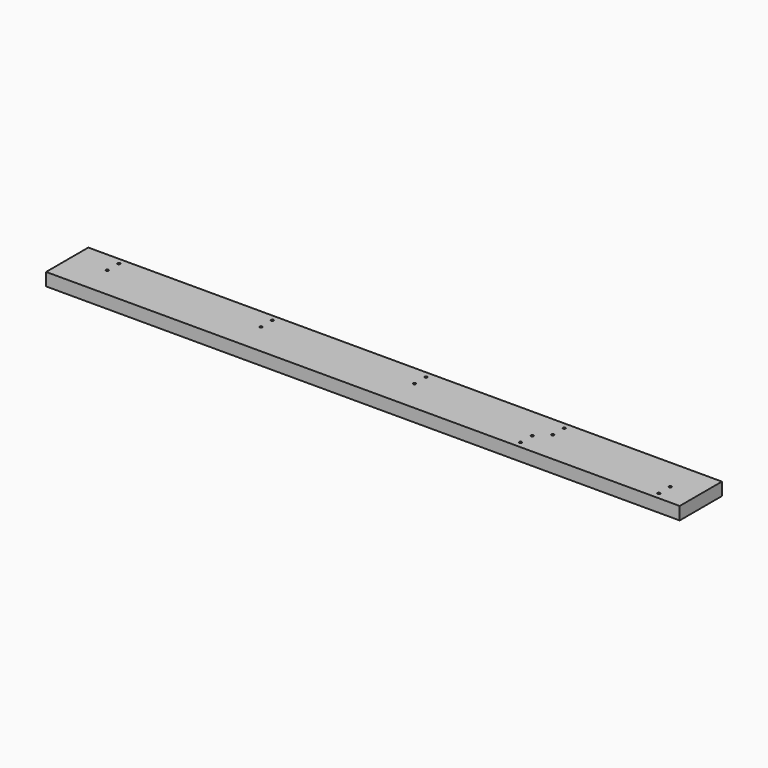
from build123d import *

# Parameters (mm, degrees)
F0_W     = 838.2
F0_H     = 69.85
F1_DEPTH = 16.891
F2_R     = 0.9906
F3_DEPTH = 8.382
F4_R     = 1.7145
F5_DEPTH = 25.4


with BuildPart() as f1:
    # F0 (on Top) → F1 (new body)
    with BuildSketch(Plane.XY):
        with Locations((419.1, 34.925)):
            Rectangle(F0_W, F0_H)
    extrude(amount=F1_DEPTH)

    # F2 (on face) → F3 (cut)
    with BuildSketch(Plane(origin=(0, 0, 0), x_dir=(1, 0, 0), z_dir=(0, 0, -1))):
        with Locations((793.75, -5.842)):
            Circle(F2_R)
        with Locations((793.75, -29.972)):
            Circle(F2_R)
        with Locations((646.43, -39.878)):
            Circle(F2_R)
        with Locations((646.43, -64.008)):
            Circle(F2_R)
        with Locations((463.55, -64.008)):
            Circle(F2_R)
        with Locations((610.87, -29.972)):
            Circle(F2_R)
        with Locations((463.55, -39.878)):
            Circle(F2_R)
        with Locations((610.87, -5.842)):
            Circle(F2_R)
        with Locations((260.35, -39.878)):
            Circle(F2_R)
        with Locations((260.35, -64.008)):
            Circle(F2_R)
        with Locations((57.15, -39.878)):
            Circle(F2_R)
        with Locations((57.15, -64.008)):
            Circle(F2_R)
    extrude(amount=-F3_DEPTH, mode=Mode.SUBTRACT)

    # F4 (on face) → F5 (cut)
    with BuildSketch(Plane(origin=(0, 0, 0), x_dir=(1, 0, 0), z_dir=(0, 0, -1))):
        with Locations((803.91, -8.382)):
            Circle(F4_R)
        with Locations((803.91, -27.432)):
            Circle(F4_R)
        with Locations((636.27, -42.418)):
            Circle(F4_R)
        with Locations((636.27, -61.468)):
            Circle(F4_R)
        with Locations((453.39, -42.418)):
            Circle(F4_R)
        with Locations((453.39, -61.468)):
            Circle(F4_R)
        with Locations((621.03, -27.432)):
            Circle(F4_R)
        with Locations((621.03, -8.382)):
            Circle(F4_R)
        with Locations((250.19, -42.418)):
            Circle(F4_R)
        with Locations((250.19, -61.468)):
            Circle(F4_R)
        with Locations((46.99, -42.418)):
            Circle(F4_R)
        with Locations((46.99, -61.468)):
            Circle(F4_R)
    extrude(amount=-F5_DEPTH, mode=Mode.SUBTRACT)


solid = f1.part
